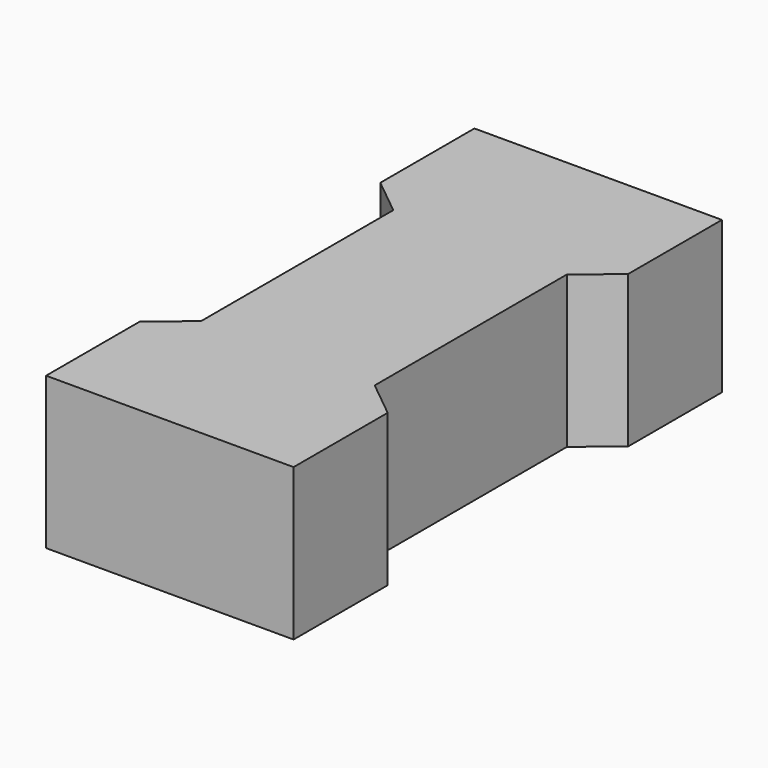
from build123d import *

# Parameters (mm, degrees)
F1_DEPTH = 25.4


with BuildPart() as f1:
    # F0 (on Top) → F1 (new body)
    with BuildSketch(Plane.XY):
        Polygon((-14.537814, 20.117985), (-14.537814, 0), (-14.537814, -20.117985), (-20.70537, -25.11077), (-20.70537, -44.788215), (0, -44.788215), (20.70537, -44.788215), (20.70537, -25.11077), (14.537814, -20.117985), (14.537814, 0), (14.537814, 20.117985), (20.70537, 25.11077), (20.70537, 44.788215), (0, 44.788215), (-20.70537, 44.788215), (-20.70537, 25.11077), align=None)
    extrude(amount=F1_DEPTH)


solid = f1.part
